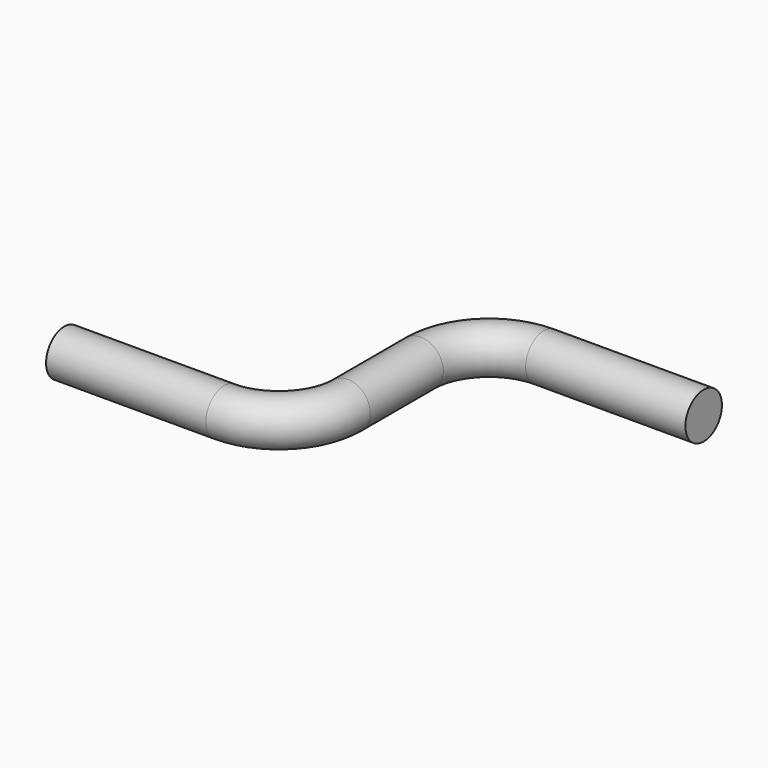
from build123d import *

# Parameters (mm, degrees)
F1_R = 10


with BuildPart() as f2:
    # F2: sweep along a path in F0
    with BuildLine(Plane.XY) as f2_path:
        Line((0, 0), (70, 0))
        ThreePointArc((70, 0), (91.2132034356, 8.7867965644), (100, 30))
        Line((100, 30), (100, 70))
        ThreePointArc((100, 70), (108.7867965644, 91.2132034356), (130, 100))
        Line((130, 100), (200, 100))
    # F1 (on Right) → F2 (sweep)
    with BuildSketch(Plane.YZ):
        Circle(F1_R)
    sweep(path=f2_path.line)


solid = f2.part
